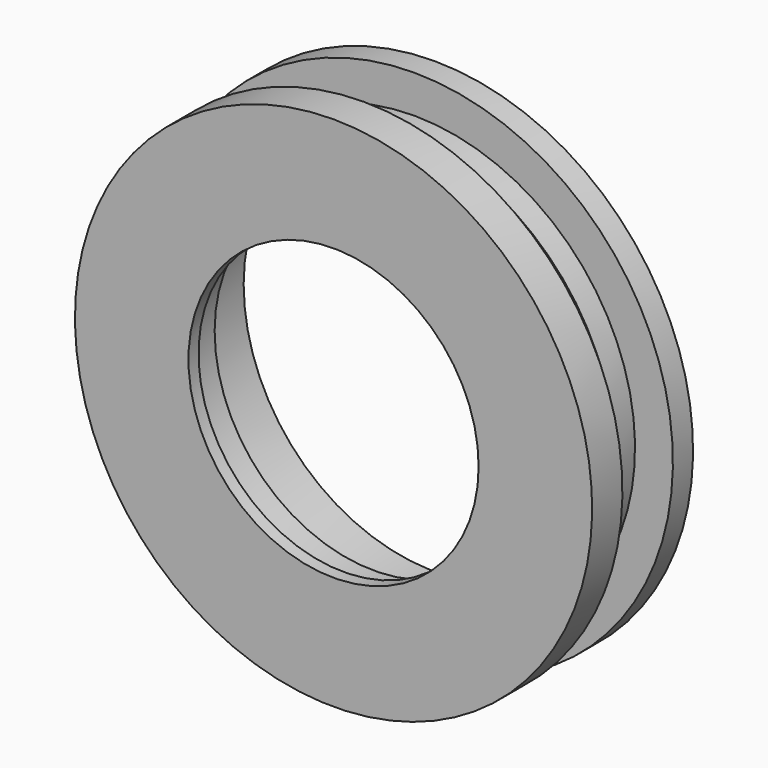
from build123d import *

# Parameters (mm, degrees)
F2_R     = 25.25
F3_DEPTH = 18
F4_R     = 23
F5_DEPTH = 2
F6_R     = 30.25
F6_R_2   = 25.25
F7_DEPTH = 12
F9_D     = 2
F9_DEPTH = 5
F9_TIP   = 0.600860619


with BuildPart() as f1:
    # F0 (on Right) → F1 (revolve)
    with BuildSketch(Plane.YZ):
        Polygon((0, 41), (0, 0), (20, 0), (20, 41), (16, 41), (16, 35), (12, 35), (6, 41), align=None)
    revolve(axis=Axis((0, 10, 0), (0, -1, 0)))

    # F2 (on face) → F3 (cut)
    with BuildSketch(Plane(origin=(0, 20, 0), x_dir=(-1, 0, 0), z_dir=(0, 1, 0))):
        Circle(F2_R)
    extrude(amount=-F3_DEPTH, mode=Mode.SUBTRACT)

    # F4 (on face) → F5 (cut, through all)
    with BuildSketch(Plane.XZ):
        Circle(F4_R)
    extrude(amount=-F5_DEPTH, mode=Mode.SUBTRACT)

    # F6 (on face) → F7 (cut)
    with BuildSketch(Plane(origin=(0, 20, 0), x_dir=(-1, 0, 0), z_dir=(0, 1, 0))):
        Circle(F6_R)
        Circle(F6_R_2, mode=Mode.SUBTRACT)
    extrude(amount=-F7_DEPTH, mode=Mode.SUBTRACT)

    # F9
    with Locations(Plane(origin=(0, 8, 0), x_dir=(-1, 0, 0), z_dir=(0, 1, 0))):
        with Locations((0, 27.75), (24.032204955, -13.875), (-24.032204955, -13.875)):
            Hole(F9_D / 2, depth=F9_DEPTH)
            with Locations((0, 0, -(F9_DEPTH + F9_TIP / 2))):  # 118° drill point
                Cone(0, F9_D / 2, F9_TIP, mode=Mode.SUBTRACT)


solid = f1.part
